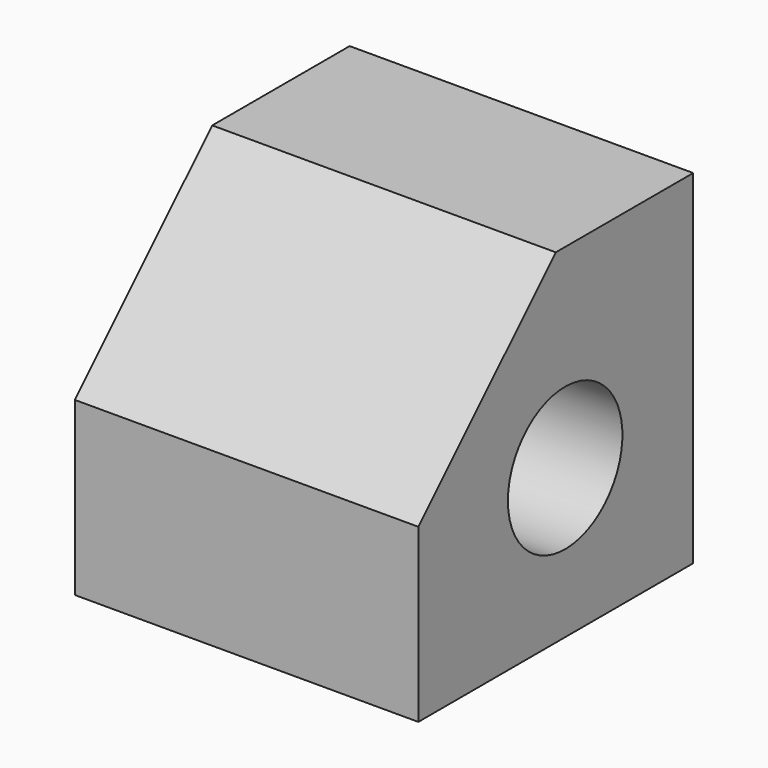
from build123d import *

# Parameters (mm, degrees)
F1_DEPTH = 60
F3_D     = 25


with BuildPart() as f1:
    # F0 (on Right) → F1 (new body)
    with BuildSketch(Plane.YZ):
        Polygon((0, 30), (0, 0), (60, 0), (60, 60), (30, 60), align=None)
    extrude(amount=F1_DEPTH)

    # F3 (through all)
    with Locations(Plane.YZ.offset(60)):
        with Locations((32.045458, 26.022727)):
            Hole(F3_D / 2)


solid = f1.part
